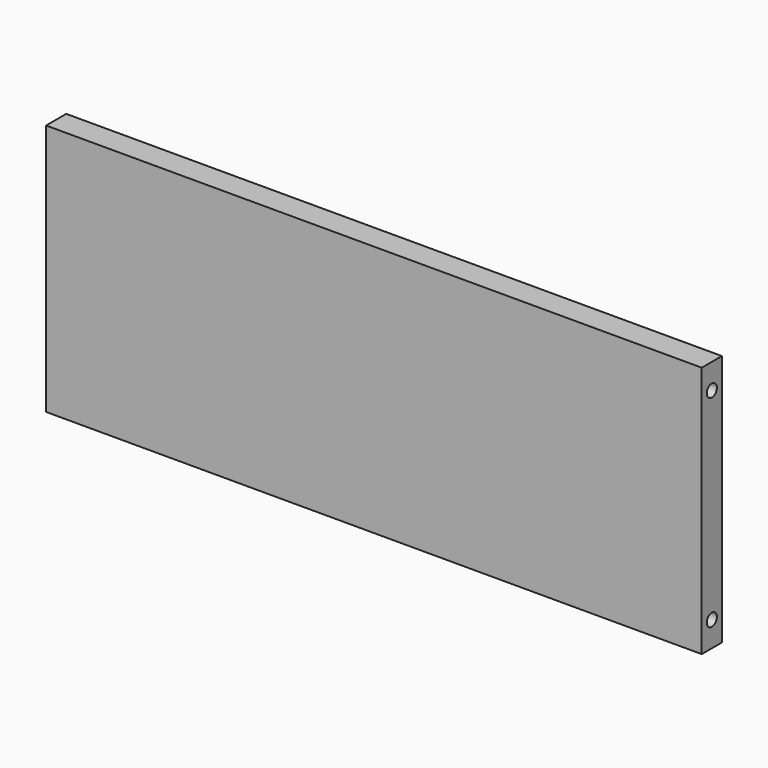
from build123d import *

# Parameters (mm, degrees)
F0_W     = 330.2
F0_H     = 127
F1_DEPTH = 12.7
F3_D     = 6.35


with BuildPart() as f1:
    # F0 (on Front) → F1 (new body)
    with BuildSketch(Plane.XZ):
        with Locations((54.45126, 2.233195)):
            Rectangle(F0_W, F0_H)
    extrude(amount=F1_DEPTH)

    # F3 (through all)
    with Locations(Plane.YZ.offset(219.55126)):
        with Locations((-6.35, 53.033195), (-6.35, -48.566805)):
            Hole(F3_D / 2)


solid = f1.part
